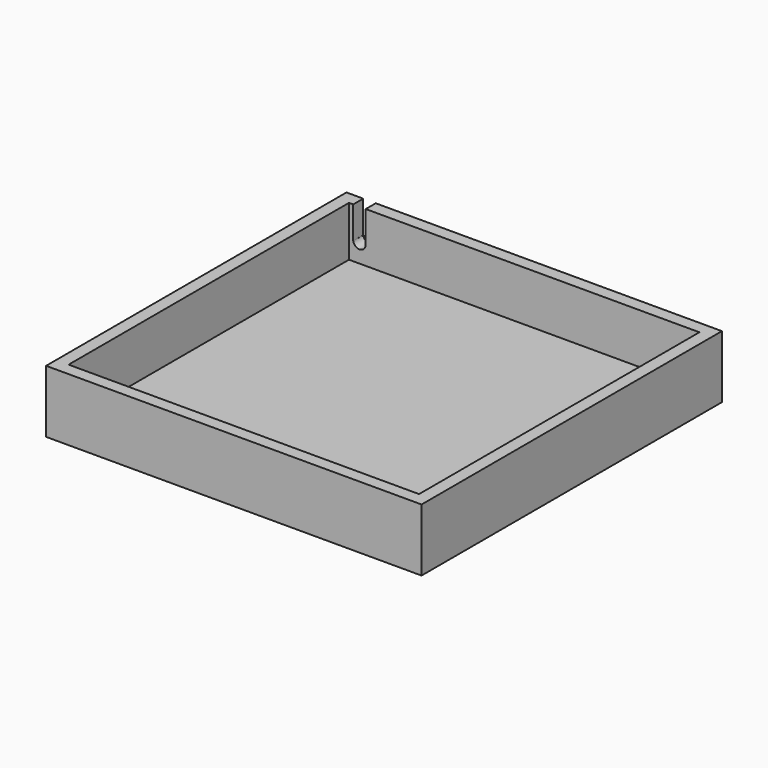
from build123d import *

# Parameters (mm, degrees)
F0_W     = 150
F0_H     = 150
F0_W_2   = 140
F0_H_2   = 140
F1_DEPTH = 25
F2_DEPTH = 5
F3_R     = 2.5
F4_DEPTH = 6
F5_W     = 5
F5_H     = 5
F6_DEPTH = 12.85037


with BuildPart() as f1:
    # F0 (on Top) → F1 (new body)
    with BuildSketch(Plane.XY):
        with Locations((9.114077, -2.272729)):
            Rectangle(F0_W, F0_H)
        with Locations((9.114077, -2.272729)):
            Rectangle(F0_W_2, F0_H_2, mode=Mode.SUBTRACT)
    extrude(amount=F1_DEPTH)

    # F0 (on Top) → F2 (join)
    with BuildSketch(Plane.XY):
        with Locations((9.114077, -2.272729)):
            Rectangle(F0_W_2, F0_H_2)
    extrude(amount=F2_DEPTH)

    # F3 (on face) → F4 (cut)
    with BuildSketch(Plane(origin=(0, 72.727271, 0), x_dir=(-1, 0, 0), z_dir=(0, 1, 0))):
        with Locations((56.684904, 12.5)):
            Circle(F3_R)
    extrude(amount=-F4_DEPTH, mode=Mode.SUBTRACT)

    # F5 (on face) → F6 (cut)
    with BuildSketch(Plane.XY.offset(25)):
        with Locations((-56.685923, 70.227271)):
            Rectangle(F5_W, F5_H)
    extrude(amount=-F6_DEPTH, mode=Mode.SUBTRACT)


solid = f1.part
